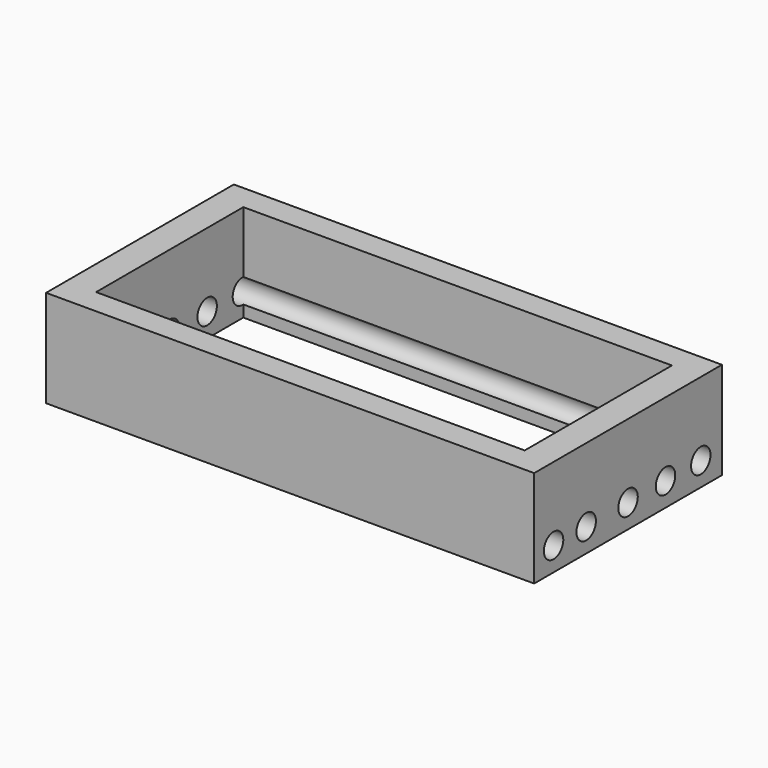
from build123d import *

# Parameters (mm, degrees)
F0_W     = 127.497956
F0_H     = 61.302628
F0_W_2   = 111.95644
F0_H_2   = 48.063566
F1_DEPTH = 25.4
F3_D     = 6.35


with BuildPart() as f1:
    # F0 (on Top) → F1 (new body)
    with BuildSketch(Plane.XY):
        Rectangle(F0_W, F0_H)
        Rectangle(F0_W_2, F0_H_2, mode=Mode.SUBTRACT)
    extrude(amount=F1_DEPTH)

    # F3 (through all)
    with Locations(Plane.YZ.offset(63.748978)):
        with Locations((-24.319587, 6.187824), (-13.670773, 6.187824), (0, 6.187824), (12.231745, 6.187824), (23.743972, 6.187824)):
            Hole(F3_D / 2)


solid = f1.part
